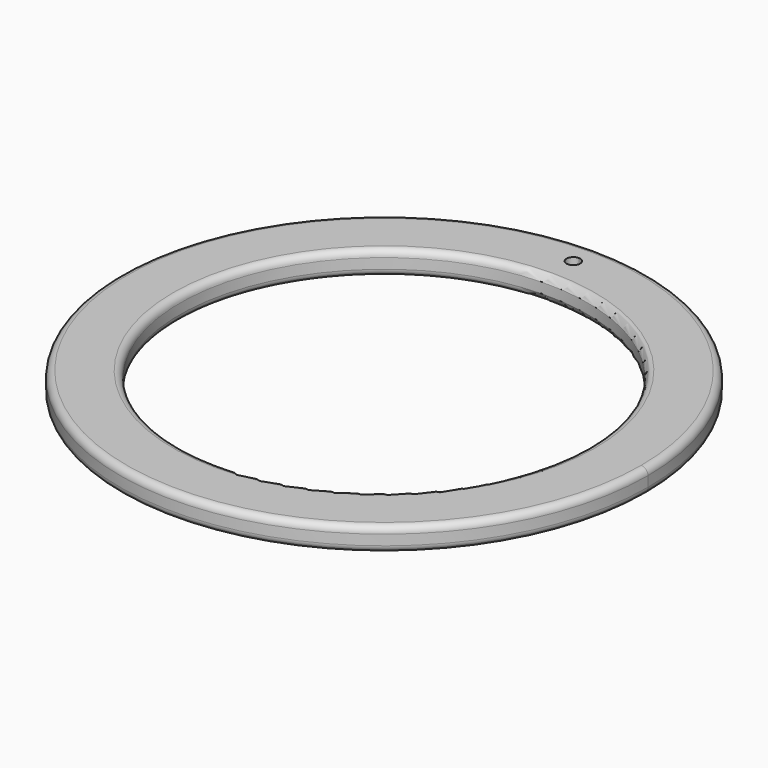
from build123d import *

# Parameters (mm, degrees)
F0_R     = 1.25
F0_R_2   = 14.95
F1_DEPTH = 1.75
F2_R     = 0.5
F3_DEPTH = 0.1


with BuildPart() as f1:
    # F0 (on Top) → F1 (new body)
    with BuildSketch(Plane.XY):
        with BuildLine():
            ThreePointArc((0, 19.35), (-13.682516, -13.682516), (19.35, 0))
            ThreePointArc((19.35, 0), (13.682516, 13.682516), (0, 19.35))
        make_face()
        with Locations((0, -17.15)):
            Circle(F0_R, mode=Mode.SUBTRACT)
        Circle(F0_R_2, mode=Mode.SUBTRACT)
        with BuildLine():
            ThreePointArc((0.5, 17.35), (-0.353553, 16.996447), (0, 17.85))
            ThreePointArc((0, 17.85), (0.353553, 17.703553), (0.5, 17.35))
        make_face(mode=Mode.SUBTRACT)
        with Locations((0, -17.15)):
            Circle(F0_R)
    extrude(amount=F1_DEPTH)

    # F2
    f2_edges = [f1.edges().sort_by_distance(p)[0] for p in [
        (-19.35, 0, 1.75),
        (-14.95, 0, 1.75),
        (-19.35, 0, 0),
        (-14.95, 0, 0),
    ]]
    fillet(f2_edges, radius=F2_R)

    # F0 (on Top) → F3 (cut)
    with BuildSketch(Plane.XY):
        with Locations((0, -17.15)):
            Circle(F0_R)
    extrude(amount=F3_DEPTH, mode=Mode.SUBTRACT)


solid = f1.part
